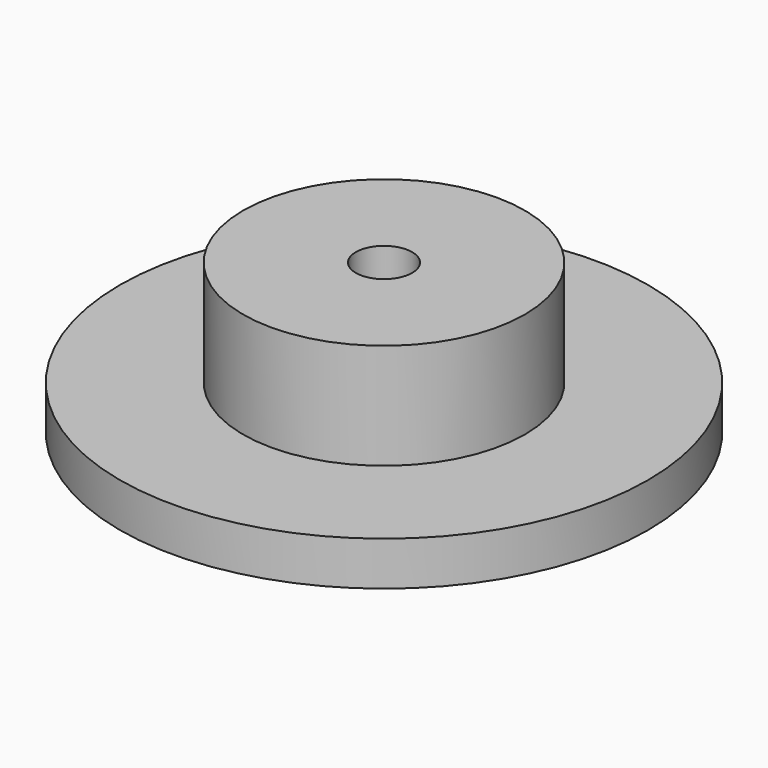
from build123d import *

# Parameters (mm, degrees)
SKETCH_R     = 15
PAD_DEPTH    = 2.5
SKETCH001_R  = 8
PAD001_DEPTH = 6
SKETCH003_R  = 1.6
POCKET_DEPTH = 9


with BuildPart() as part:
    # Sketch → Pad (new body)
    with BuildSketch(Plane.XY):
        Circle(SKETCH_R)
    extrude(amount=PAD_DEPTH)

    # Sketch001 (on Face3 of Pad) → Pad001 (join)
    with BuildSketch(Plane.XY.offset(2.5)):
        Circle(SKETCH001_R)
    extrude(amount=PAD001_DEPTH)

    # Sketch003 (on Face2 of Pad001) → Pocket (cut)
    with BuildSketch(Plane(origin=(0, 0, 0), x_dir=(1, 0, 0), z_dir=(0, 0, -1))):
        Circle(SKETCH003_R)
    extrude(amount=-POCKET_DEPTH, mode=Mode.SUBTRACT)


solid = part.part
